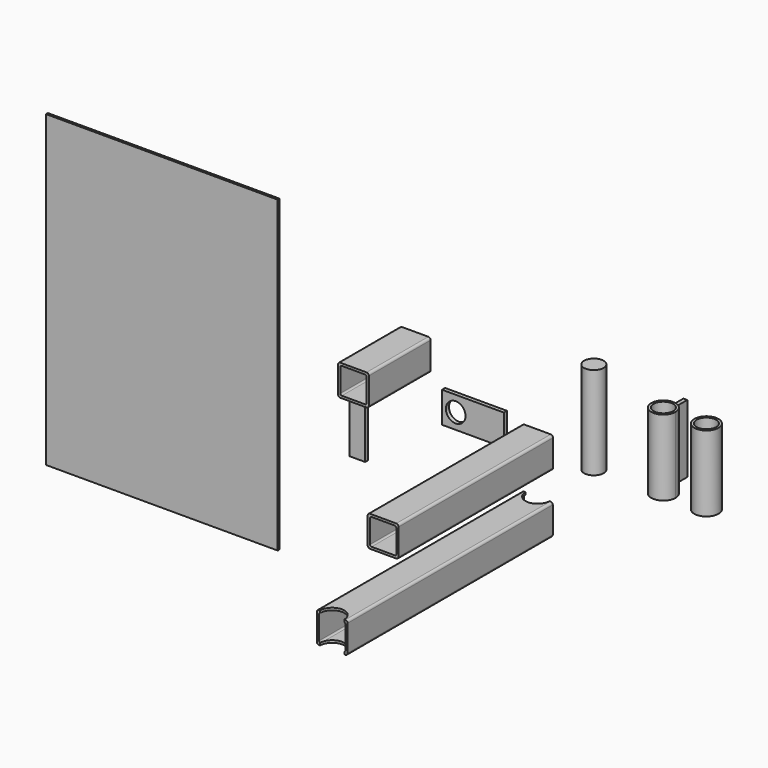
from build123d import *

# Parameters (mm, degrees)
F1_DEPTH  = 250
F3_DEPTH  = 100
F4_W      = 80
F4_H      = 40
F4_R      = 12.7
F5_DEPTH  = 5
F6_R      = 12.7
F7_DEPTH  = 120
F8_R      = 12.7
F9_DEPTH  = 98
F10_W     = 20
F10_H     = 90
F11_DEPTH = 5
F12_W     = 300
F12_H     = 400
F13_DEPTH = 3
F14_W     = 20
F14_H     = 5
F15_DEPTH = 25
F16_R     = 15.7
F16_R_2   = 12.7
F17_DEPTH = 98
F19_DEPTH = 332
F20_R     = 15.7
F21_DEPTH = 40


with BuildPart() as f1:
    # F0 (on Front) → F1 (new body)
    with BuildSketch(Plane.XZ):
        with BuildLine():
            ThreePointArc((20, 17), (19.12132, 19.12132), (17, 20))
            Line((17, 20), (-17, 20))
            ThreePointArc((-17, 20), (-19.12132, 19.12132), (-20, 17))
            Line((-20, 17), (-20, -17))
            ThreePointArc((-20, -17), (-19.12132, -19.12132), (-17, -20))
            Line((-17, -20), (17, -20))
            ThreePointArc((17, -20), (19.12132, -19.12132), (20, -17))
            Line((20, -17), (20, 17))
        make_face()
        with BuildLine():
            Line((-15, 17), (15, 17))
            ThreePointArc((15, 17), (16.414214, 16.414214), (17, 15))
            Line((17, 15), (17, -15))
            ThreePointArc((17, -15), (16.414214, -16.414214), (15, -17))
            Line((15, -17), (-15, -17))
            ThreePointArc((-15, -17), (-16.414214, -16.414214), (-17, -15))
            Line((-17, -15), (-17, 15))
            ThreePointArc((-17, 15), (-16.414214, 16.414214), (-15, 17))
        make_face(mode=Mode.SUBTRACT)
    extrude(amount=F1_DEPTH)


with BuildPart() as f3:
    # F2 (on Front) → F3 (new body)
    with BuildSketch(Plane.XZ):
        with BuildLine():
            ThreePointArc((-138.550367, 76.684668), (-139.429046, 78.805988), (-141.550367, 79.684668))
            Line((-141.550367, 79.684668), (-175.550367, 79.684668))
            ThreePointArc((-175.550367, 79.684668), (-177.671687, 78.805988), (-178.550367, 76.684668))
            Line((-178.550367, 76.684668), (-178.550367, 42.684668))
            ThreePointArc((-178.550367, 42.684668), (-177.671687, 40.563347), (-175.550367, 39.684668))
            Line((-175.550367, 39.684668), (-141.550367, 39.684668))
            ThreePointArc((-141.550367, 39.684668), (-139.429046, 40.563347), (-138.550367, 42.684668))
            Line((-138.550367, 42.684668), (-138.550367, 76.684668))
        make_face()
        with BuildLine():
            Line((-173.550367, 76.684668), (-143.550367, 76.684668))
            ThreePointArc((-143.550367, 76.684668), (-142.136153, 76.098881), (-141.550367, 74.684668))
            Line((-141.550367, 74.684668), (-141.550367, 44.684668))
            ThreePointArc((-141.550367, 44.684668), (-142.136153, 43.270454), (-143.550367, 42.684668))
            Line((-143.550367, 42.684668), (-173.550367, 42.684668))
            ThreePointArc((-173.550367, 42.684668), (-174.96458, 43.270454), (-175.550367, 44.684668))
            Line((-175.550367, 44.684668), (-175.550367, 74.684668))
            ThreePointArc((-175.550367, 74.684668), (-174.96458, 76.098881), (-173.550367, 76.684668))
        make_face(mode=Mode.SUBTRACT)
    extrude(amount=F3_DEPTH)


with BuildPart() as f5:
    # F4 (on Front) → F5 (new body)
    with BuildSketch(Plane.XZ):
        with Locations((-79.768888, 8.368215)):
            Rectangle(F4_W, F4_H)
        with Locations((-102.068888, 8.368215)):
            Circle(F4_R, mode=Mode.SUBTRACT)
    extrude(amount=F5_DEPTH)


with BuildPart() as f7:
    # F6 (on Top) → F7 (new body)
    with BuildSketch(Plane.XY):
        with Locations((75.307079, -3.080751)):
            Circle(F6_R)
    extrude(amount=F7_DEPTH)


with BuildPart() as f9:
    # F8 (on Top) → F9 (new body)
    with BuildSketch(Plane.XY):
        with BuildLine():
            ThreePointArc((160.4111, 15.499677), (152.731709, -11.952824), (178.6111, 0))
            ThreePointArc((178.6111, 0), (174.863924, 10.179391), (165.4111, 15.499677))
            ThreePointArc((165.4111, 15.499677), (162.9111, 15.7), (160.4111, 15.499677))
        make_face()
        with Locations((162.9111, 0)):
            Circle(F8_R, mode=Mode.SUBTRACT)
        with BuildLine():
            ThreePointArc((160.4111, 15.499677), (162.9111, 15.7), (165.4111, 15.499677))
            Line((165.4111, 15.499677), (165.4111, 35.499677))
            Line((165.4111, 35.499677), (160.4111, 35.499677))
            Line((160.4111, 35.499677), (160.4111, 15.499677))
        make_face()
    extrude(amount=F9_DEPTH)

    # F14 (on face) → F15 (cut)
    with BuildSketch(Plane(origin=(160.4111, 0, 0), x_dir=(0, -1, 0), z_dir=(-1, 0, 0))):
        with Locations((-25.499677, 2.5)):
            Rectangle(F14_W, F14_H)
        with Locations((-25.499677, 95.5)):
            Rectangle(F14_W, F14_H)
    extrude(amount=-F15_DEPTH, mode=Mode.SUBTRACT)


with BuildPart() as f11:
    # F10 (on Front) → F11 (new body)
    with BuildSketch(Plane.XZ):
        with Locations((-229.330013, -41.393923)):
            Rectangle(F10_W, F10_H)
    extrude(amount=F11_DEPTH)


with BuildPart() as f13:
    # F12 (on Front) → F13 (new body)
    with BuildSketch(Plane.XZ):
        with Locations((-484.09996, -25.523666)):
            Rectangle(F12_W, F12_H)
    extrude(amount=F13_DEPTH)


with BuildPart() as f17:
    # F16 (on Top) → F17 (new body)
    with BuildSketch(Plane.XY):
        with Locations((218.611836, 0)):
            Circle(F16_R)
        with Locations((218.611836, 0)):
            Circle(F16_R_2, mode=Mode.SUBTRACT)
    extrude(amount=F17_DEPTH)


with BuildPart() as f19:
    # F18 (on Front) → F19 (new body)
    with BuildSketch(Plane.XZ):
        with BuildLine():
            ThreePointArc((19.653997, -59.522946), (18.775317, -57.401626), (16.653997, -56.522946))
            Line((16.653997, -56.522946), (-17.346003, -56.522946))
            ThreePointArc((-17.346003, -56.522946), (-19.467323, -57.401626), (-20.346003, -59.522946))
            Line((-20.346003, -59.522946), (-20.346003, -93.522946))
            ThreePointArc((-20.346003, -93.522946), (-19.467323, -95.644267), (-17.346003, -96.522946))
            Line((-17.346003, -96.522946), (16.653997, -96.522946))
            ThreePointArc((16.653997, -96.522946), (18.775317, -95.644267), (19.653997, -93.522946))
            Line((19.653997, -93.522946), (19.653997, -59.522946))
        make_face()
        with BuildLine():
            Line((-15.346003, -59.522946), (14.653997, -59.522946))
            ThreePointArc((14.653997, -59.522946), (16.06821, -60.108733), (16.653997, -61.522946))
            Line((16.653997, -61.522946), (16.653997, -91.522946))
            ThreePointArc((16.653997, -91.522946), (16.06821, -92.93716), (14.653997, -93.522946))
            Line((14.653997, -93.522946), (-15.346003, -93.522946))
            ThreePointArc((-15.346003, -93.522946), (-16.760217, -92.93716), (-17.346003, -91.522946))
            Line((-17.346003, -91.522946), (-17.346003, -61.522946))
            ThreePointArc((-17.346003, -61.522946), (-16.760217, -60.108733), (-15.346003, -59.522946))
        make_face(mode=Mode.SUBTRACT)
    extrude(amount=F19_DEPTH)

    # F20 (on face) → F21 (cut, through all)
    with BuildSketch(Plane(origin=(0, 0, -96.522946), x_dir=(1, 0, 0), z_dir=(0, 0, -1))):
        with Locations((-0.346003, 332)):
            Circle(F20_R)
        Circle(F20_R)
        with BuildLine():
            ThreePointArc((-16.046003, 332), (-0.346003, 316.3), (15.353997, 332))
            Line((15.353997, 332), (-16.046003, 332))
        make_face()
    extrude(amount=-F21_DEPTH, mode=Mode.SUBTRACT)


solid = Compound([f1.part, f3.part, f5.part, f7.part, f9.part, f11.part, f13.part, f17.part, f19.part])
